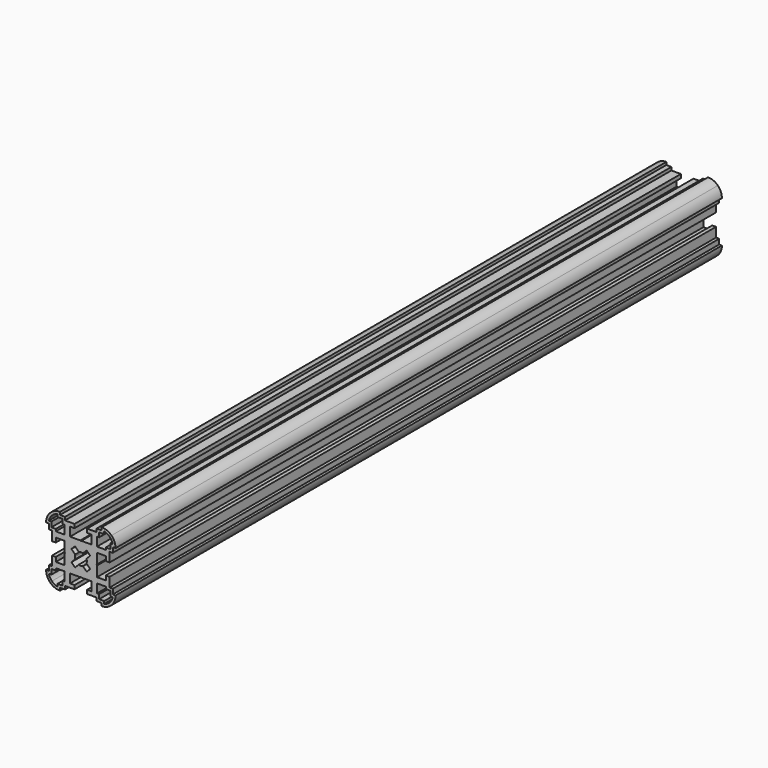
from build123d import *

# Parameters (mm, degrees)
F2_DEPTH      = 150
F3_DEPTH      = 225
F3_DEPTH_BACK = 75


with BuildPart() as f2:
    # F1 (on Front) → F2 (new body)
    with BuildSketch(Plane.XZ):
        with BuildLine():
            Line((0.2, 6.4), (0, 6.2))
            Line((0, 6.2), (-0.2, 6.4))
            Line((-0.2, 6.4), (-4.25, 6.4))
            Line((-4.25, 6.4), (-4.25, 9.9))
            Line((-4.25, 9.9), (-2.5, 9.9))
            Line((-2.5, 9.9), (-2.5, 11.4))
            Line((-2.5, 11.4), (-6.25, 11.4))
            Line((-6.25, 11.4), (-6.25, 12.65))
            Line((-6.25, 12.65), (-8.25, 12.65))
            Line((-8.25, 12.65), (-8.25, 13.75))
            ThreePointArc((-8.25, 13.75), (-10.354759, 13.331337), (-12.139087, 12.139087))
            ThreePointArc((-12.139087, 12.139087), (-13.331337, 10.354759), (-13.75, 8.25))
            Line((-13.75, 8.25), (-12.65, 8.25))
            Line((-12.65, 8.25), (-12.65, 6.25))
            Line((-12.65, 6.25), (-11.4, 6.25))
            Line((-11.4, 6.25), (-11.4, 2.5))
            Line((-11.4, 2.5), (-9.9, 2.5))
            Line((-9.9, 2.5), (-9.9, 4.25))
            Line((-9.9, 4.25), (-6.4, 4.25))
            Line((-6.4, 4.25), (-6.4, 0.2))
            Line((-6.4, 0.2), (-6.2, 0))
            Line((-6.2, 0), (-6.4, -0.2))
            Line((-6.4, -0.2), (-6.4, -4.25))
            Line((-6.4, -4.25), (-9.9, -4.25))
            Line((-9.9, -4.25), (-9.9, -2.5))
            Line((-9.9, -2.5), (-11.4, -2.5))
            Line((-11.4, -2.5), (-11.4, -6.25))
            Line((-11.4, -6.25), (-12.65, -6.25))
            Line((-12.65, -6.25), (-12.65, -8.25))
            Line((-12.65, -8.25), (-13.75, -8.25))
            ThreePointArc((-13.75, -8.25), (-13.331337, -10.354759), (-12.139087, -12.139087))
            ThreePointArc((-12.139087, -12.139087), (-10.354759, -13.331337), (-8.25, -13.75))
            Line((-8.25, -13.75), (-8.25, -12.65))
            Line((-8.25, -12.65), (-6.25, -12.65))
            Line((-6.25, -12.65), (-6.25, -11.4))
            Line((-6.25, -11.4), (-2.5, -11.4))
            Line((-2.5, -11.4), (-2.5, -9.9))
            Line((-2.5, -9.9), (-4.25, -9.9))
            Line((-4.25, -9.9), (-4.25, -6.4))
            Line((-4.25, -6.4), (-0.2, -6.4))
            Line((-0.2, -6.4), (0, -6.2))
            Line((0, -6.2), (0.2, -6.4))
            Line((0.2, -6.4), (4.25, -6.4))
            Line((4.25, -6.4), (4.25, -9.9))
            Line((4.25, -9.9), (2.5, -9.9))
            Line((2.5, -9.9), (2.5, -11.4))
            Line((2.5, -11.4), (6.25, -11.4))
            Line((6.25, -11.4), (6.25, -12.65))
            Line((6.25, -12.65), (8.25, -12.65))
            Line((8.25, -12.65), (8.25, -13.75))
            ThreePointArc((8.25, -13.75), (10.354759, -13.331337), (12.139087, -12.139087))
            ThreePointArc((12.139087, -12.139087), (13.331337, -10.354759), (13.75, -8.25))
            Line((13.75, -8.25), (12.65, -8.25))
            Line((12.65, -8.25), (12.65, -6.25))
            Line((12.65, -6.25), (11.4, -6.25))
            Line((11.4, -6.25), (11.4, -2.5))
            Line((11.4, -2.5), (9.9, -2.5))
            Line((9.9, -2.5), (9.9, -4.25))
            Line((9.9, -4.25), (6.4, -4.25))
            Line((6.4, -4.25), (6.4, -0.2))
            Line((6.4, -0.2), (6.2, 0))
            Line((6.2, 0), (6.4, 0.2))
            Line((6.4, 0.2), (6.4, 4.25))
            Line((6.4, 4.25), (9.9, 4.25))
            Line((9.9, 4.25), (9.9, 2.5))
            Line((9.9, 2.5), (11.4, 2.5))
            Line((11.4, 2.5), (11.4, 6.25))
            Line((11.4, 6.25), (12.65, 6.25))
            Line((12.65, 6.25), (12.65, 8.25))
            Line((12.65, 8.25), (13.75, 8.25))
            ThreePointArc((13.75, 8.25), (13.331337, 10.354759), (12.139087, 12.139087))
            ThreePointArc((12.139087, 12.139087), (10.354759, 13.331337), (8.25, 13.75))
            Line((8.25, 13.75), (8.25, 12.65))
            Line((8.25, 12.65), (6.25, 12.65))
            Line((6.25, 12.65), (6.25, 11.4))
            Line((6.25, 11.4), (2.5, 11.4))
            Line((2.5, 11.4), (2.5, 9.9))
            Line((2.5, 9.9), (4.25, 9.9))
            Line((4.25, 9.9), (4.25, 6.4))
            Line((4.25, 6.4), (0.2, 6.4))
        make_face()
        with BuildLine():
            Line((-7.25, -11.65), (-9.25, -11.65))
            Line((-9.25, -11.65), (-9.25, -12.637482))
            ThreePointArc((-9.25, -12.637482), (-10.426132, -12.188839), (-11.431981, -11.431981))
            ThreePointArc((-11.431981, -11.431981), (-12.188839, -10.426132), (-12.637482, -9.25))
            Line((-12.637482, -9.25), (-11.65, -9.25))
            Line((-11.65, -9.25), (-11.65, -7.25))
            Line((-11.65, -7.25), (-9.9, -7.25))
            Line((-9.9, -7.25), (-9.9, -6.4))
            Line((-9.9, -6.4), (-6.4, -6.4))
            Line((-6.4, -6.4), (-6.4, -9.9))
            Line((-6.4, -9.9), (-7.25, -9.9))
            Line((-7.25, -9.9), (-7.25, -11.65))
        make_face(mode=Mode.SUBTRACT)
        with BuildLine():
            Line((9.25, -12.637482), (9.25, -11.65))
            Line((9.25, -11.65), (7.25, -11.65))
            Line((7.25, -11.65), (7.25, -9.9))
            Line((7.25, -9.9), (6.4, -9.9))
            Line((6.4, -9.9), (6.4, -6.4))
            Line((6.4, -6.4), (9.9, -6.4))
            Line((9.9, -6.4), (9.9, -7.25))
            Line((9.9, -7.25), (11.65, -7.25))
            Line((11.65, -7.25), (11.65, -9.25))
            Line((11.65, -9.25), (12.637482, -9.25))
            ThreePointArc((12.637482, -9.25), (12.188839, -10.426132), (11.431981, -11.431981))
            ThreePointArc((11.431981, -11.431981), (10.426132, -12.188839), (9.25, -12.637482))
        make_face(mode=Mode.SUBTRACT)
        with BuildLine():
            Line((-9.25, 12.637482), (-9.25, 11.65))
            Line((-9.25, 11.65), (-7.25, 11.65))
            Line((-7.25, 11.65), (-7.25, 9.9))
            Line((-7.25, 9.9), (-6.4, 9.9))
            Line((-6.4, 9.9), (-6.4, 6.4))
            Line((-6.4, 6.4), (-9.9, 6.4))
            Line((-9.9, 6.4), (-9.9, 7.25))
            Line((-9.9, 7.25), (-11.65, 7.25))
            Line((-11.65, 7.25), (-11.65, 9.25))
            Line((-11.65, 9.25), (-12.637482, 9.25))
            ThreePointArc((-12.637482, 9.25), (-12.188839, 10.426132), (-11.431981, 11.431981))
            ThreePointArc((-11.431981, 11.431981), (-10.426132, 12.188839), (-9.25, 12.637482))
        make_face(mode=Mode.SUBTRACT)
        with BuildLine():
            ThreePointArc((0, 2.4), (0.424502, 2.36216), (0.835618, 2.249832))
            Line((0.835618, 2.249832), (2.298097, 3.712311))
            Line((2.298097, 3.712311), (3.005204, 3.005204))
            Line((3.005204, 3.005204), (3.712311, 2.298097))
            Line((3.712311, 2.298097), (2.249832, 0.835618))
            ThreePointArc((2.249832, 0.835618), (2.36216, 0.424502), (2.4, 0))
            ThreePointArc((2.4, 0), (2.36216, -0.424502), (2.249832, -0.835618))
            Line((2.249832, -0.835618), (3.712311, -2.298097))
            Line((3.712311, -2.298097), (3.005204, -3.005204))
            Line((3.005204, -3.005204), (2.298097, -3.712311))
            Line((2.298097, -3.712311), (0.835618, -2.249832))
            ThreePointArc((0.835618, -2.249832), (0.424502, -2.36216), (0, -2.4))
            ThreePointArc((0, -2.4), (-0.424502, -2.36216), (-0.835618, -2.249832))
            Line((-0.835618, -2.249832), (-2.298097, -3.712311))
            Line((-2.298097, -3.712311), (-3.005204, -3.005204))
            Line((-3.005204, -3.005204), (-3.712311, -2.298097))
            Line((-3.712311, -2.298097), (-2.249832, -0.835618))
            ThreePointArc((-2.249832, -0.835618), (-2.36216, -0.424502), (-2.4, 0))
            ThreePointArc((-2.4, 0), (-2.36216, 0.424502), (-2.249832, 0.835618))
            Line((-2.249832, 0.835618), (-3.712311, 2.298097))
            Line((-3.712311, 2.298097), (-3.005204, 3.005204))
            Line((-3.005204, 3.005204), (-2.298097, 3.712311))
            Line((-2.298097, 3.712311), (-0.835618, 2.249832))
            ThreePointArc((-0.835618, 2.249832), (-0.424502, 2.36216), (0, 2.4))
        make_face(mode=Mode.SUBTRACT)
        with BuildLine():
            Line((6.4, 6.4), (6.4, 9.9))
            Line((6.4, 9.9), (7.25, 9.9))
            Line((7.25, 9.9), (7.25, 11.65))
            Line((7.25, 11.65), (9.25, 11.65))
            Line((9.25, 11.65), (9.25, 12.637482))
            ThreePointArc((9.25, 12.637482), (10.426132, 12.188839), (11.431981, 11.431981))
            ThreePointArc((11.431981, 11.431981), (12.188839, 10.426132), (12.637482, 9.25))
            Line((12.637482, 9.25), (11.65, 9.25))
            Line((11.65, 9.25), (11.65, 7.25))
            Line((11.65, 7.25), (9.9, 7.25))
            Line((9.9, 7.25), (9.9, 6.4))
            Line((9.9, 6.4), (6.4, 6.4))
        make_face(mode=Mode.SUBTRACT)
    extrude(amount=F2_DEPTH)


with BuildPart() as f3:
    # F1 (on Front) → F3 (new body, two sides)
    with BuildSketch(Plane.XZ) as f3_sk:
        with BuildLine():
            Line((0.2, 6.4), (0, 6.2))
            Line((0, 6.2), (-0.2, 6.4))
            Line((-0.2, 6.4), (-4.25, 6.4))
            Line((-4.25, 6.4), (-4.25, 9.9))
            Line((-4.25, 9.9), (-2.5, 9.9))
            Line((-2.5, 9.9), (-2.5, 11.4))
            Line((-2.5, 11.4), (-6.25, 11.4))
            Line((-6.25, 11.4), (-6.25, 12.65))
            Line((-6.25, 12.65), (-8.25, 12.65))
            Line((-8.25, 12.65), (-8.25, 13.75))
            ThreePointArc((-8.25, 13.75), (-10.354759, 13.331337), (-12.139087, 12.139087))
            ThreePointArc((-12.139087, 12.139087), (-13.331337, 10.354759), (-13.75, 8.25))
            Line((-13.75, 8.25), (-12.65, 8.25))
            Line((-12.65, 8.25), (-12.65, 6.25))
            Line((-12.65, 6.25), (-11.4, 6.25))
            Line((-11.4, 6.25), (-11.4, 2.5))
            Line((-11.4, 2.5), (-9.9, 2.5))
            Line((-9.9, 2.5), (-9.9, 4.25))
            Line((-9.9, 4.25), (-6.4, 4.25))
            Line((-6.4, 4.25), (-6.4, 0.2))
            Line((-6.4, 0.2), (-6.2, 0))
            Line((-6.2, 0), (-6.4, -0.2))
            Line((-6.4, -0.2), (-6.4, -4.25))
            Line((-6.4, -4.25), (-9.9, -4.25))
            Line((-9.9, -4.25), (-9.9, -2.5))
            Line((-9.9, -2.5), (-11.4, -2.5))
            Line((-11.4, -2.5), (-11.4, -6.25))
            Line((-11.4, -6.25), (-12.65, -6.25))
            Line((-12.65, -6.25), (-12.65, -8.25))
            Line((-12.65, -8.25), (-13.75, -8.25))
            ThreePointArc((-13.75, -8.25), (-13.331337, -10.354759), (-12.139087, -12.139087))
            ThreePointArc((-12.139087, -12.139087), (-10.354759, -13.331337), (-8.25, -13.75))
            Line((-8.25, -13.75), (-8.25, -12.65))
            Line((-8.25, -12.65), (-6.25, -12.65))
            Line((-6.25, -12.65), (-6.25, -11.4))
            Line((-6.25, -11.4), (-2.5, -11.4))
            Line((-2.5, -11.4), (-2.5, -9.9))
            Line((-2.5, -9.9), (-4.25, -9.9))
            Line((-4.25, -9.9), (-4.25, -6.4))
            Line((-4.25, -6.4), (-0.2, -6.4))
            Line((-0.2, -6.4), (0, -6.2))
            Line((0, -6.2), (0.2, -6.4))
            Line((0.2, -6.4), (4.25, -6.4))
            Line((4.25, -6.4), (4.25, -9.9))
            Line((4.25, -9.9), (2.5, -9.9))
            Line((2.5, -9.9), (2.5, -11.4))
            Line((2.5, -11.4), (6.25, -11.4))
            Line((6.25, -11.4), (6.25, -12.65))
            Line((6.25, -12.65), (8.25, -12.65))
            Line((8.25, -12.65), (8.25, -13.75))
            ThreePointArc((8.25, -13.75), (10.354759, -13.331337), (12.139087, -12.139087))
            ThreePointArc((12.139087, -12.139087), (13.331337, -10.354759), (13.75, -8.25))
            Line((13.75, -8.25), (12.65, -8.25))
            Line((12.65, -8.25), (12.65, -6.25))
            Line((12.65, -6.25), (11.4, -6.25))
            Line((11.4, -6.25), (11.4, -2.5))
            Line((11.4, -2.5), (9.9, -2.5))
            Line((9.9, -2.5), (9.9, -4.25))
            Line((9.9, -4.25), (6.4, -4.25))
            Line((6.4, -4.25), (6.4, -0.2))
            Line((6.4, -0.2), (6.2, 0))
            Line((6.2, 0), (6.4, 0.2))
            Line((6.4, 0.2), (6.4, 4.25))
            Line((6.4, 4.25), (9.9, 4.25))
            Line((9.9, 4.25), (9.9, 2.5))
            Line((9.9, 2.5), (11.4, 2.5))
            Line((11.4, 2.5), (11.4, 6.25))
            Line((11.4, 6.25), (12.65, 6.25))
            Line((12.65, 6.25), (12.65, 8.25))
            Line((12.65, 8.25), (13.75, 8.25))
            ThreePointArc((13.75, 8.25), (13.331337, 10.354759), (12.139087, 12.139087))
            ThreePointArc((12.139087, 12.139087), (10.354759, 13.331337), (8.25, 13.75))
            Line((8.25, 13.75), (8.25, 12.65))
            Line((8.25, 12.65), (6.25, 12.65))
            Line((6.25, 12.65), (6.25, 11.4))
            Line((6.25, 11.4), (2.5, 11.4))
            Line((2.5, 11.4), (2.5, 9.9))
            Line((2.5, 9.9), (4.25, 9.9))
            Line((4.25, 9.9), (4.25, 6.4))
            Line((4.25, 6.4), (0.2, 6.4))
        make_face()
        with BuildLine():
            Line((-7.25, -11.65), (-9.25, -11.65))
            Line((-9.25, -11.65), (-9.25, -12.637482))
            ThreePointArc((-9.25, -12.637482), (-10.426132, -12.188839), (-11.431981, -11.431981))
            ThreePointArc((-11.431981, -11.431981), (-12.188839, -10.426132), (-12.637482, -9.25))
            Line((-12.637482, -9.25), (-11.65, -9.25))
            Line((-11.65, -9.25), (-11.65, -7.25))
            Line((-11.65, -7.25), (-9.9, -7.25))
            Line((-9.9, -7.25), (-9.9, -6.4))
            Line((-9.9, -6.4), (-6.4, -6.4))
            Line((-6.4, -6.4), (-6.4, -9.9))
            Line((-6.4, -9.9), (-7.25, -9.9))
            Line((-7.25, -9.9), (-7.25, -11.65))
        make_face(mode=Mode.SUBTRACT)
        with BuildLine():
            Line((9.25, -12.637482), (9.25, -11.65))
            Line((9.25, -11.65), (7.25, -11.65))
            Line((7.25, -11.65), (7.25, -9.9))
            Line((7.25, -9.9), (6.4, -9.9))
            Line((6.4, -9.9), (6.4, -6.4))
            Line((6.4, -6.4), (9.9, -6.4))
            Line((9.9, -6.4), (9.9, -7.25))
            Line((9.9, -7.25), (11.65, -7.25))
            Line((11.65, -7.25), (11.65, -9.25))
            Line((11.65, -9.25), (12.637482, -9.25))
            ThreePointArc((12.637482, -9.25), (12.188839, -10.426132), (11.431981, -11.431981))
            ThreePointArc((11.431981, -11.431981), (10.426132, -12.188839), (9.25, -12.637482))
        make_face(mode=Mode.SUBTRACT)
        with BuildLine():
            Line((-9.25, 12.637482), (-9.25, 11.65))
            Line((-9.25, 11.65), (-7.25, 11.65))
            Line((-7.25, 11.65), (-7.25, 9.9))
            Line((-7.25, 9.9), (-6.4, 9.9))
            Line((-6.4, 9.9), (-6.4, 6.4))
            Line((-6.4, 6.4), (-9.9, 6.4))
            Line((-9.9, 6.4), (-9.9, 7.25))
            Line((-9.9, 7.25), (-11.65, 7.25))
            Line((-11.65, 7.25), (-11.65, 9.25))
            Line((-11.65, 9.25), (-12.637482, 9.25))
            ThreePointArc((-12.637482, 9.25), (-12.188839, 10.426132), (-11.431981, 11.431981))
            ThreePointArc((-11.431981, 11.431981), (-10.426132, 12.188839), (-9.25, 12.637482))
        make_face(mode=Mode.SUBTRACT)
        with BuildLine():
            ThreePointArc((0, 2.4), (0.424502, 2.36216), (0.835618, 2.249832))
            Line((0.835618, 2.249832), (2.298097, 3.712311))
            Line((2.298097, 3.712311), (3.005204, 3.005204))
            Line((3.005204, 3.005204), (3.712311, 2.298097))
            Line((3.712311, 2.298097), (2.249832, 0.835618))
            ThreePointArc((2.249832, 0.835618), (2.36216, 0.424502), (2.4, 0))
            ThreePointArc((2.4, 0), (2.36216, -0.424502), (2.249832, -0.835618))
            Line((2.249832, -0.835618), (3.712311, -2.298097))
            Line((3.712311, -2.298097), (3.005204, -3.005204))
            Line((3.005204, -3.005204), (2.298097, -3.712311))
            Line((2.298097, -3.712311), (0.835618, -2.249832))
            ThreePointArc((0.835618, -2.249832), (0.424502, -2.36216), (0, -2.4))
            ThreePointArc((0, -2.4), (-0.424502, -2.36216), (-0.835618, -2.249832))
            Line((-0.835618, -2.249832), (-2.298097, -3.712311))
            Line((-2.298097, -3.712311), (-3.005204, -3.005204))
            Line((-3.005204, -3.005204), (-3.712311, -2.298097))
            Line((-3.712311, -2.298097), (-2.249832, -0.835618))
            ThreePointArc((-2.249832, -0.835618), (-2.36216, -0.424502), (-2.4, 0))
            ThreePointArc((-2.4, 0), (-2.36216, 0.424502), (-2.249832, 0.835618))
            Line((-2.249832, 0.835618), (-3.712311, 2.298097))
            Line((-3.712311, 2.298097), (-3.005204, 3.005204))
            Line((-3.005204, 3.005204), (-2.298097, 3.712311))
            Line((-2.298097, 3.712311), (-0.835618, 2.249832))
            ThreePointArc((-0.835618, 2.249832), (-0.424502, 2.36216), (0, 2.4))
        make_face(mode=Mode.SUBTRACT)
        with BuildLine():
            Line((6.4, 6.4), (6.4, 9.9))
            Line((6.4, 9.9), (7.25, 9.9))
            Line((7.25, 9.9), (7.25, 11.65))
            Line((7.25, 11.65), (9.25, 11.65))
            Line((9.25, 11.65), (9.25, 12.637482))
            ThreePointArc((9.25, 12.637482), (10.426132, 12.188839), (11.431981, 11.431981))
            ThreePointArc((11.431981, 11.431981), (12.188839, 10.426132), (12.637482, 9.25))
            Line((12.637482, 9.25), (11.65, 9.25))
            Line((11.65, 9.25), (11.65, 7.25))
            Line((11.65, 7.25), (9.9, 7.25))
            Line((9.9, 7.25), (9.9, 6.4))
            Line((9.9, 6.4), (6.4, 6.4))
        make_face(mode=Mode.SUBTRACT)
    extrude(amount=F3_DEPTH)
    extrude(f3_sk.sketch, amount=-F3_DEPTH_BACK)


solid = Compound([f2.part, f3.part])
